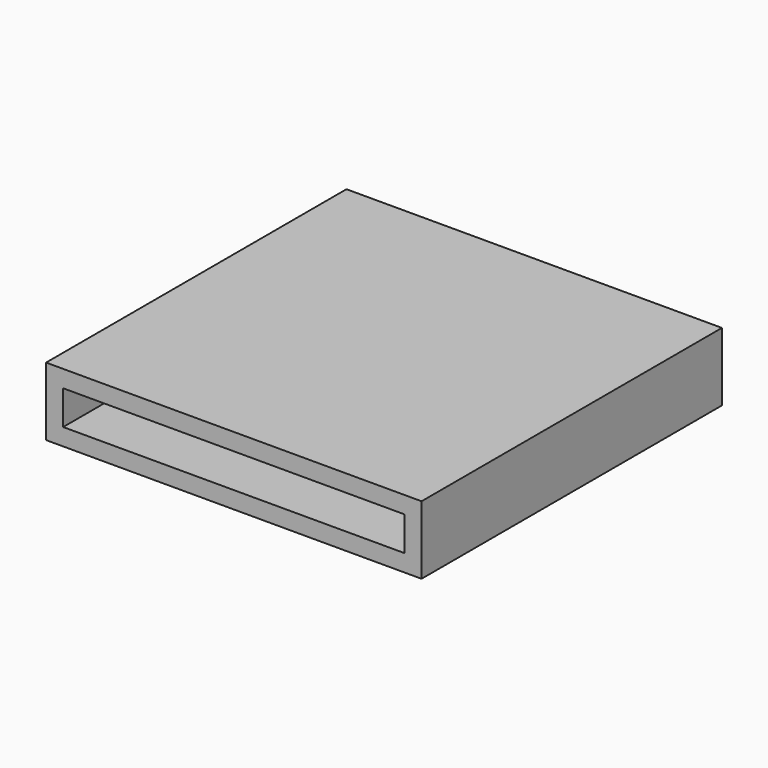
from build123d import *

# Parameters (mm, degrees)
F0_W     = 12.7
F0_H     = 266.7
F1_DEPTH = 50.8
F2_W     = 254
F2_H     = 12.7
F3_DEPTH = 266.7
F4_W     = 254
F4_H     = 12.7
F5_DEPTH = 266.7


with BuildPart() as f1:
    # F0 (on Top) → F1 (new body)
    with BuildSketch(Plane.XY):
        Polygon((-127, 139.7), (-139.7, 139.7), (-139.7, -139.7), (-127, -139.7), (-127, 127), align=None)
        Polygon((139.7, 139.7), (-127, 139.7), (-127, 127), (127, 127), (139.7, 127), align=None)
        with Locations((133.35, -6.35)):
            Rectangle(F0_W, F0_H)
    extrude(amount=F1_DEPTH)

    # F2 (on face) → F3 (join)
    with BuildSketch(Plane.XZ.offset(-127)):
        with Locations((0, 44.45)):
            Rectangle(F2_W, F2_H)
    extrude(amount=F3_DEPTH)

    # F4 (on face) → F5 (join)
    with BuildSketch(Plane.XZ.offset(-127)):
        with Locations((0, 6.35)):
            Rectangle(F4_W, F4_H)
    extrude(amount=F5_DEPTH)


solid = f1.part
